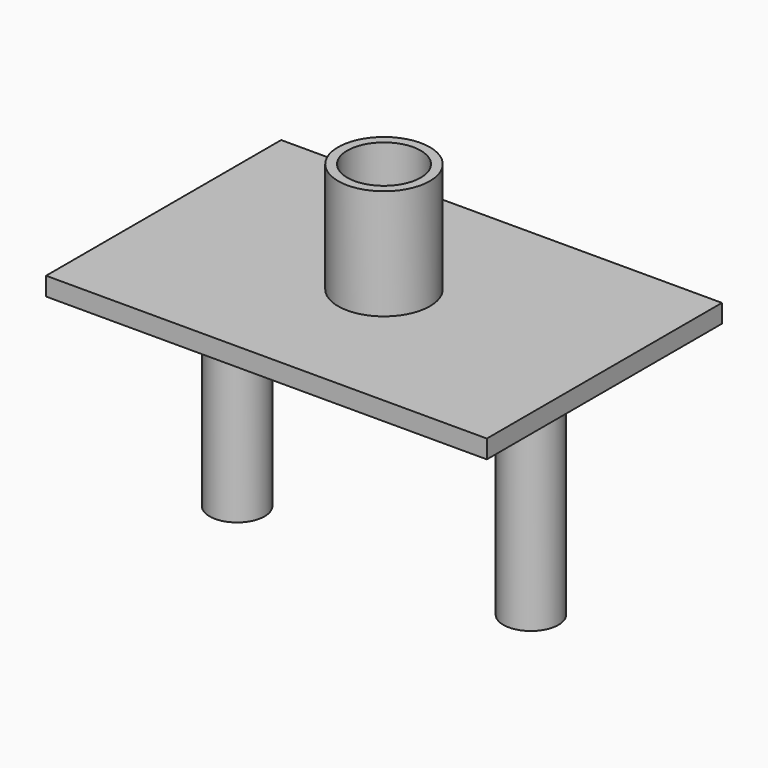
from build123d import *

# Parameters (mm, degrees)
F0_W     = 304.8
F0_H     = 12.7
F1_DEPTH = 101.6
F2_R     = 19.05
F2_R_2   = 13.335
F3_DEPTH = 152.4
F4_R     = 5.55625
F5_DEPTH = 25.4
F6_R     = 31.75
F6_R_2   = 25.4
F7_DEPTH = 76.2


with BuildPart() as f1:
    # F0 (on Front) → F1 (new body, symmetric)
    with BuildSketch(Plane.XZ):
        Rectangle(F0_W, F0_H)
    extrude(amount=F1_DEPTH, both=True)

    # F2 (on face) → F3 (join)
    with BuildSketch(Plane(origin=(0, 0, -6.35), x_dir=(1, 0, 0), z_dir=(0, 0, -1))):
        with Locations((101.6, 0)):
            Circle(F2_R)
        with Locations((101.6, 0)):
            Circle(F2_R_2, mode=Mode.SUBTRACT)
        with Locations((-101.6, 0)):
            Circle(F2_R)
        with Locations((-101.6, 0)):
            Circle(F2_R_2, mode=Mode.SUBTRACT)
    extrude(amount=F3_DEPTH)

    # F4 (on face) → F5 (cut)
    with BuildSketch(Plane.XY.offset(6.35)):
        Circle(F4_R)
    extrude(amount=-F5_DEPTH, mode=Mode.SUBTRACT)

    # F6 (on face) → F7 (join)
    with BuildSketch(Plane.XY.offset(6.35)):
        Circle(F6_R)
        Circle(F6_R_2, mode=Mode.SUBTRACT)
    extrude(amount=F7_DEPTH)


solid = f1.part
